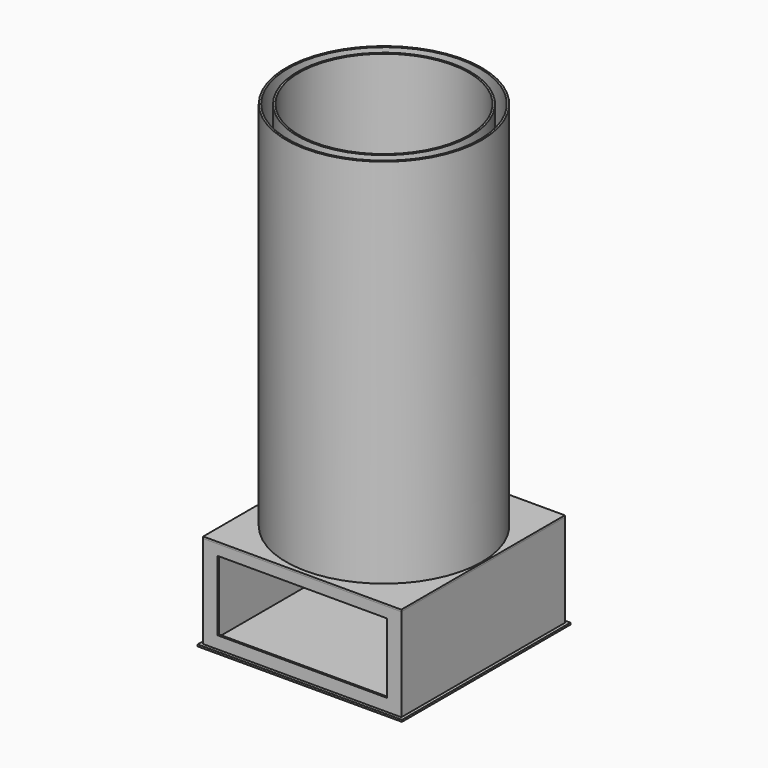
from build123d import *

# Parameters (mm, degrees)
F0_R      = 140
F0_R_2    = 137
F1_DEPTH  = 600
F2_W      = 320
F2_H      = 330
F2_R      = 127
F3_DEPTH  = 3
F0_R_3    = 158
F0_R_4    = 155
F4_DEPTH  = 600
F5_W      = 320
F5_H      = 330
F5_W_2    = 314
F5_H_2    = 324
F6_DEPTH  = 150
F7_W      = 330
F7_H      = 340
F8_DEPTH  = 3
F9_W      = 274
F9_H      = 113
F10_DEPTH = 25
F11_W     = 60
F11_H     = 40
F12_DEPTH = 4


with BuildPart() as f1:
    # F0 (on Top) → F1 (new body)
    with BuildSketch(Plane.XY):
        Circle(F0_R)
        Circle(F0_R_2, mode=Mode.SUBTRACT)
    extrude(amount=F1_DEPTH)


with BuildPart() as f3:
    # F2 (on Top) → F3 (new body)
    with BuildSketch(Plane.XY):
        Rectangle(F2_W, F2_H)
        Circle(F2_R, mode=Mode.SUBTRACT)
    extrude(amount=-F3_DEPTH)


with BuildPart() as f4:
    # F0 (on Top) → F4 (new body)
    with BuildSketch(Plane.XY):
        Circle(F0_R_3)
        Circle(F0_R_4, mode=Mode.SUBTRACT)
    extrude(amount=F4_DEPTH)


with BuildPart() as f6:
    # F5 (on face) → F6 (new body)
    with BuildSketch(Plane(origin=(0, 0, -3), x_dir=(1, 0, 0), z_dir=(0, 0, -1))):
        Rectangle(F5_W, F5_H)
        Rectangle(F5_W_2, F5_H_2, mode=Mode.SUBTRACT)
    extrude(amount=F6_DEPTH)

    # F9 (on face) → F10 (cut)
    with BuildSketch(Plane.XZ.offset(165)):
        with Locations((0, -76.5)):
            Rectangle(F9_W, F9_H)
    extrude(amount=-F10_DEPTH, mode=Mode.SUBTRACT)

    # F11 (on face) → F12 (cut)
    with BuildSketch(Plane(origin=(0, 165, 0), x_dir=(-1, 0, 0), z_dir=(0, 1, 0))):
        with Locations((0, -83)):
            Rectangle(F11_W, F11_H)
    extrude(amount=-F12_DEPTH, mode=Mode.SUBTRACT)


with BuildPart() as f8:
    # F7 (on face) → F8 (new body)
    with BuildSketch(Plane(origin=(0, 0, -153), x_dir=(1, 0, 0), z_dir=(0, 0, -1))):
        Rectangle(F7_W, F7_H)
    extrude(amount=F8_DEPTH)


solid = Compound([f1.part, f3.part, f4.part, f6.part, f8.part])
